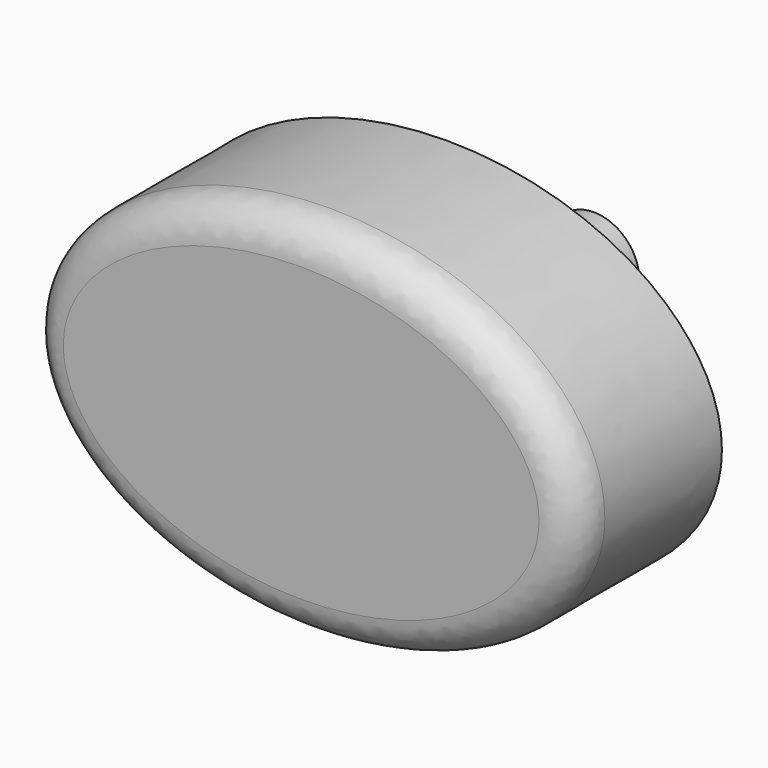
from build123d import *

# Parameters (mm, degrees)
F1_DEPTH = 10
F2_R     = 2
F3_R     = 2.5
F4_DEPTH = 10


with BuildPart() as f1:
    # F0 (on Front) → F1 (new body)
    with BuildSketch(Plane.XZ):
        with BuildLine():
            add(Edge.make_bspline(
                [(15, 0), (15, 17.320508), (-7.5, 8.660254), (-30, 0), (-7.5, -8.660254), (15, -17.320508), (15, 0)],
                knots=[0, 0, 0, 2.094395, 2.094395, 4.18879, 4.18879, 6.283185, 6.283185, 6.283185], degree=2, weights=[1, 0.5, 1, 0.5, 1, 0.5, 1]))
        make_face()
    extrude(amount=F1_DEPTH)

    # F2
    f2_edges = [f1.edges().sort_by_distance(p)[0] for p in [
        (-15, -10, 0),
    ]]
    fillet(f2_edges, radius=F2_R)

    # F3 (on face) → F4 (join)
    with BuildSketch(Plane(origin=(0, 0, 0), x_dir=(-1, 0, 0), z_dir=(0, 1, 0))):
        Circle(F3_R)
    extrude(amount=F4_DEPTH)


solid = f1.part
